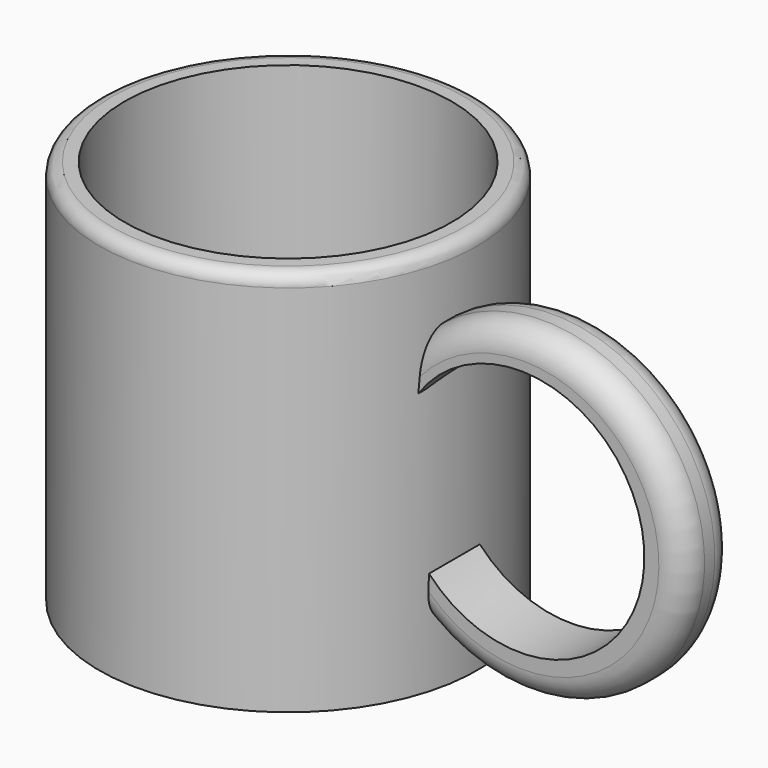
from build123d import *

# Parameters (mm, degrees)
F0_W     = 37.800748
F0_H     = 77.238627
F2_T     = -5.08
F3_R     = 2.54
F5_DEPTH = 12.7
F6_R     = 5.08


with BuildPart() as f1:
    # F0 (on Front) → F1 (revolve)
    with BuildSketch(Plane.XZ):
        with Locations((-18.900374, 38.619313)):
            Rectangle(F0_W, F0_H)
    revolve(axis=Axis((0, 0, 38.619313), (0, 0, 1)))

    # F2
    f2_openings = [f1.faces().sort_by_distance(p)[0] for p in [
        (0, 0, 77.238627),
    ]]
    offset(amount=F2_T, openings=f2_openings)

    # F3
    f3_edges = [f1.edges().sort_by_distance(p)[0] for p in [
        (37.800748, 0, 77.238627),
    ]]
    fillet(f3_edges, radius=F3_R)

    # F4 (on Front) → F5 (join)
    with BuildSketch(Plane.XZ):
        with BuildLine():
            Line((38.342651, 22.37929), (37.904121, 12.855229))
            ThreePointArc((37.904121, 12.855229), (89.388555, 39.219768), (37.178893, 64.117298))
            Line((37.178893, 64.117298), (36.196828, 53.376514))
            ThreePointArc((36.196828, 53.376514), (81.346949, 40.929204), (38.342651, 22.37929))
        make_face()
    extrude(amount=F5_DEPTH)

    # F6
    f6_edges = [f1.edges().sort_by_distance(p)[0] for p in [
        (89.391719, 0, 38.827843),
        (89.388555, -12.7, 39.219768),
    ]]
    fillet(f6_edges, radius=F6_R)


solid = f1.part
